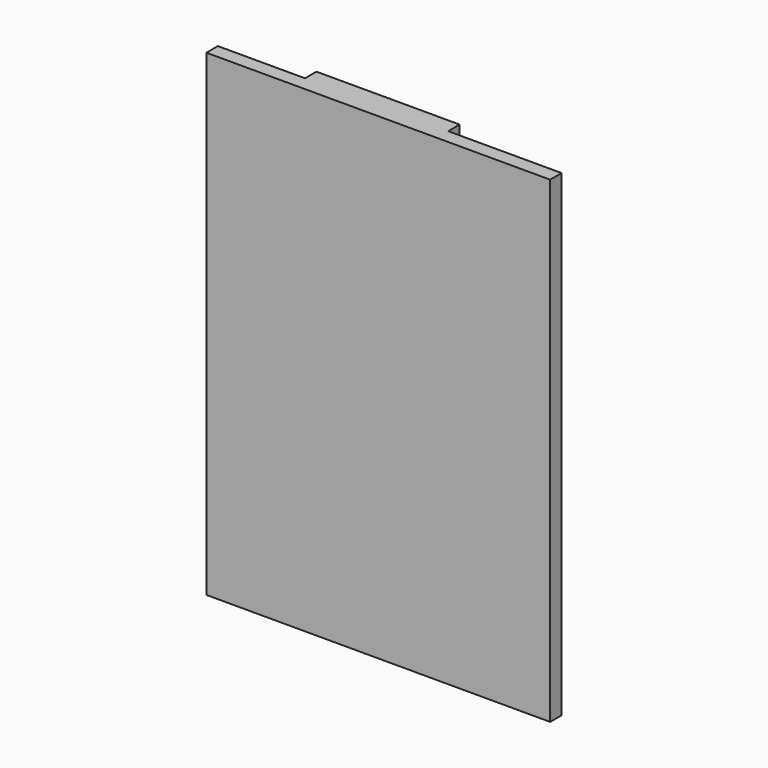
from build123d import *

# Parameters (mm, degrees)
F0_W     = 360
F0_H     = 500
F1_DEPTH = 15
F2_W     = 150
F2_H     = 500
F3_DEPTH = 15
F5_D     = 5
F5_DEPTH = 5
F5_TIP   = 1.5021515476


with BuildPart() as f1:
    # F0 (on Front) → F1 (new body)
    with BuildSketch(Plane.XZ):
        with Locations((-21.0021212956, 2.1194461733)):
            Rectangle(F0_W, F0_H)
    extrude(amount=-F1_DEPTH)

    # F2 (on face) → F3 (join)
    with BuildSketch(Plane(origin=(0, 15, 0), x_dir=(-1, 0, 0), z_dir=(0, 1, 0))):
        with Locations((34.7477533389, 2.1194461733)):
            Rectangle(F2_W, F2_H)
    extrude(amount=F3_DEPTH)

    # F5
    with Locations(Plane(origin=(0, 30, 0), x_dir=(-1, 0, 0), z_dir=(0, 1, 0))):
        with Locations((-28.9978787044, 92.1194461733), (71.0021212956, 92.1194461733), (71.0021212956, -7.8805538267), (-28.9978787044, -7.8805538267)):
            Hole(F5_D / 2, depth=F5_DEPTH)
            with Locations((0, 0, -(F5_DEPTH + F5_TIP / 2))):  # 118° drill point
                Cone(0, F5_D / 2, F5_TIP, mode=Mode.SUBTRACT)


solid = f1.part
